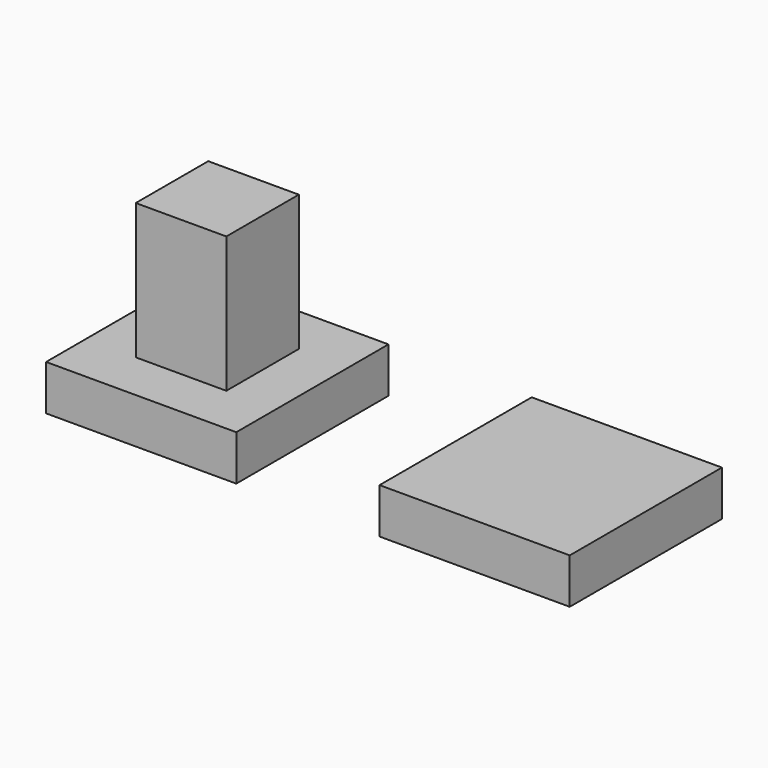
from build123d import *

# Parameters (mm, degrees)
F0_W     = 53.34
F0_H     = 53.34
F0_W_2   = 25.4
F0_H_2   = 25.4
F1_DEPTH = 12.7
F2_DEPTH = 50.8


with BuildPart() as f1:
    # F0 (on Top) → F1 (new body)
    with BuildSketch(Plane.XY):
        with Locations((-46.754366, 38.676957)):
            Rectangle(F0_W, F0_H)
        with Locations((-46.754366, 38.676957)):
            Rectangle(F0_W_2, F0_H_2, mode=Mode.SUBTRACT)
        with Locations((46.754366, 38.676957)):
            Rectangle(F0_W, F0_H)
    extrude(amount=F1_DEPTH)

    # F0 (on Top) → F2 (join)
    with BuildSketch(Plane.XY):
        with Locations((-46.754366, 38.676957)):
            Rectangle(F0_W_2, F0_H_2)
    extrude(amount=F2_DEPTH)


solid = f1.part
